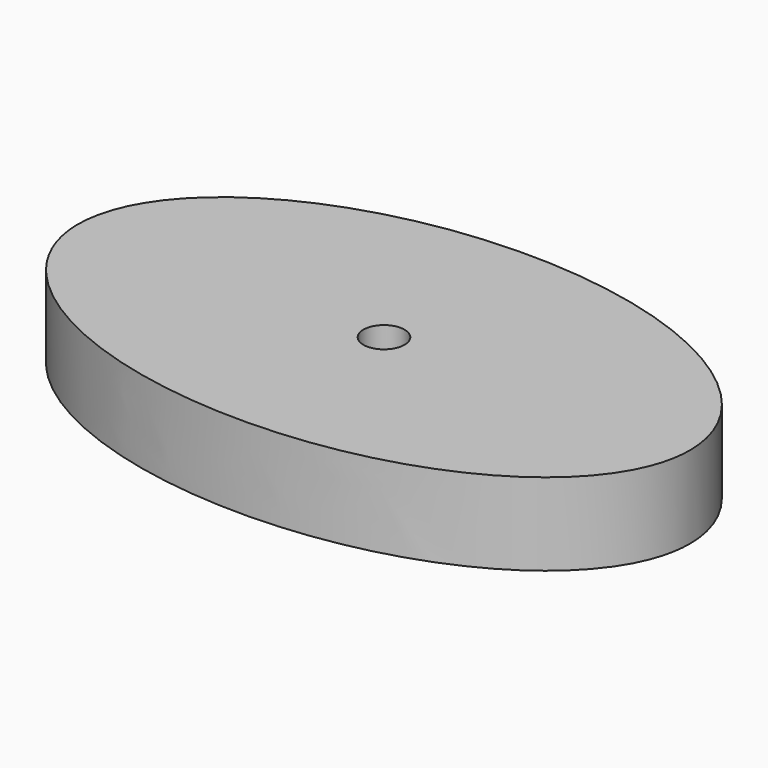
from build123d import *

# Parameters (mm, degrees)
F1_DEPTH = 12.7
F3_D     = 6.35


with BuildPart() as f1:
    # F0 (on Top) → F1 (new body)
    with BuildSketch(Plane.XY):
        with BuildLine():
            add(Edge.make_bspline(
                [(47.23407, 0), (47.23407, 47.9363), (-23.617035, 23.96815), (-94.468139, 0), (-23.617035, -23.96815), (47.23407, -47.9363), (47.23407, 0)],
                knots=[0, 0, 0, 2.094395, 2.094395, 4.18879, 4.18879, 6.283185, 6.283185, 6.283185], degree=2, weights=[1, 0.5, 1, 0.5, 1, 0.5, 1]))
        make_face()
    extrude(amount=F1_DEPTH)

    # F3 (through all)
    with Locations(Plane.XY.offset(12.7)):
        with Locations((0, 0)):
            Hole(F3_D / 2)


solid = f1.part
